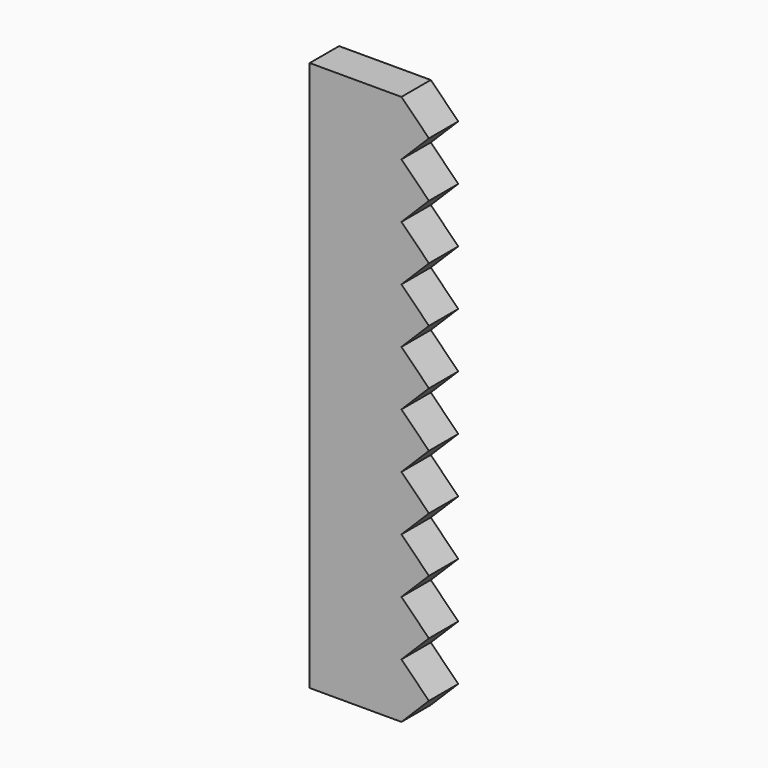
from build123d import *

# Parameters (mm, degrees)
F1_DEPTH = 5.08


with BuildPart() as f1:
    # F0 (on Front) → F1 (new body, symmetric)
    with BuildSketch(Plane.XZ):
        Polygon((-20.673906, 77.98629), (-46.073906, 77.98629), (-46.073906, -74.41371), (-20.673906, -74.41371), (-13.053906, -66.79371), (-20.673906, -59.17371), (-13.053906, -51.55371), (-20.673906, -43.93371), (-13.053906, -36.31371), (-20.673906, -28.69371), (-13.053906, -21.07371), (-20.673906, -13.45371), (-13.053906, -5.83371), (-20.673906, 1.78629), (-13.053906, 9.40629), (-20.673906, 17.02629), (-13.053906, 24.64629), (-20.673906, 32.26629), (-13.053906, 39.88629), (-20.673906, 47.50629), (-13.053906, 55.12629), (-20.673906, 62.74629), (-13.053906, 70.36629), align=None)
    extrude(amount=F1_DEPTH, both=True)


solid = f1.part
